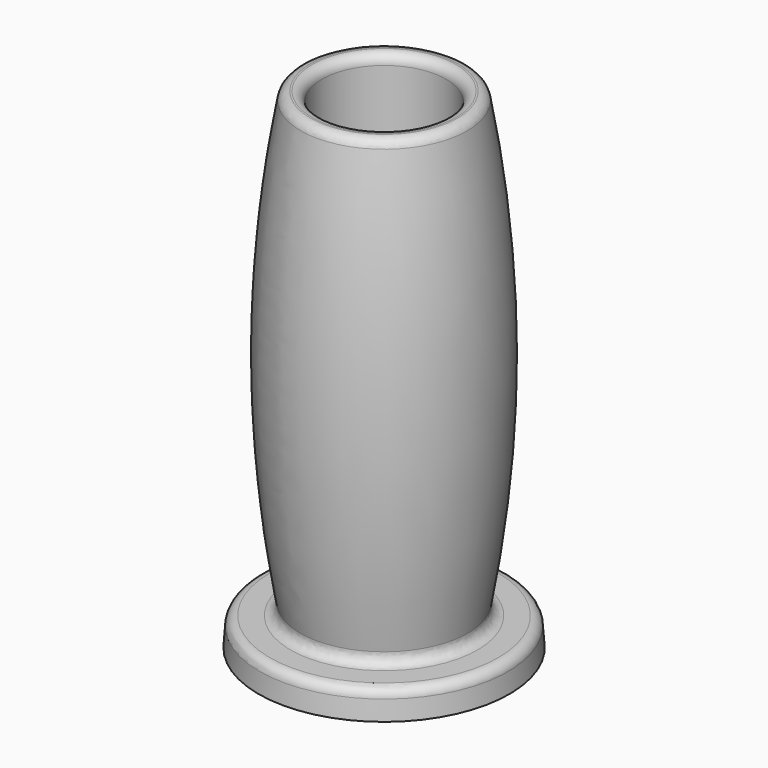
from build123d import *

# Parameters (mm, degrees)
F2_R = 1.5


with BuildPart() as f1:
    # F0 (on Right) → F1 (revolve)
    with BuildSketch(Plane.YZ):
        with BuildLine():
            Line((-19.199329, 0), (-9.5, 0))
            Line((-9.5, 0), (-9.5, 75))
            Line((-9.5, 75), (-12.5, 75))
            ThreePointArc((-12.5, 75), (-15.885577, 39.677001), (-12.5, 4.354002))
            Line((-12.5, 4.354002), (-18.887844, 4.354002))
            Line((-18.887844, 4.354002), (-19.199329, 0))
        make_face()
    revolve(axis=Axis((0, 0, 37.771061), (0, 0, 1)))

    # F2
    f2_edges = [f1.edges().sort_by_distance(p)[0] for p in [
        (0, 9.5, 75),
        (0, 18.887844, 4.354002),
        (0, 12.5, 4.354002),
        (0, 12.5, 75),
        (0, 9.5, 0),
    ]]
    fillet(f2_edges, radius=F2_R)


solid = f1.part
